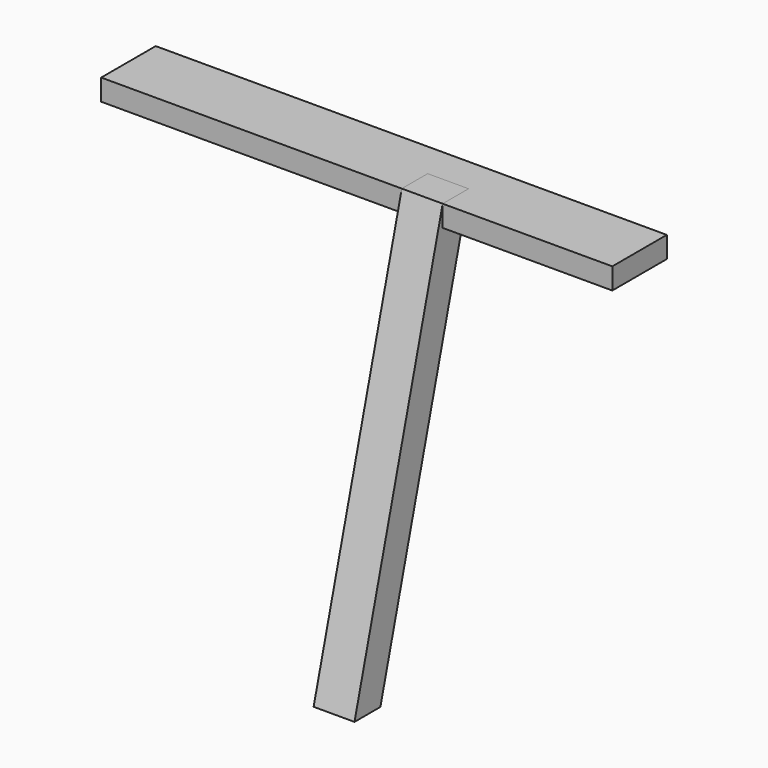
from build123d import *

# Parameters (mm, degrees)
F0_W     = 600
F0_H     = 80
F1_DEPTH = 25
F2_W     = 48
F2_H     = 38


with BuildPart() as f1:
    # F0 (on Top) → F1 (new body)
    with BuildSketch(Plane.XY):
        with Locations((53.466596, -79.196742)):
            Rectangle(F0_W, F0_H)
    extrude(amount=F1_DEPTH)


with BuildPart() as f4:
    # F4: sweep along a path in F6
    with BuildLine(Plane.YZ.offset(106.352791)) as f4_path:
        Line((-119.196742, 25), (-248.606265, -457.962913))
    # F2 (on face) → F4 (sweep)
    with BuildSketch(Plane.XY.offset(25)):
        with Locations((130.352791, -100.196742)):
            Rectangle(F2_W, F2_H)
    sweep(path=f4_path.line)


with BuildPart() as f1_1:
    add(f1.part)

    # F5: cut F4
    add(f4.part, mode=Mode.SUBTRACT)


solid = Compound([f4.part, f1_1.part])
